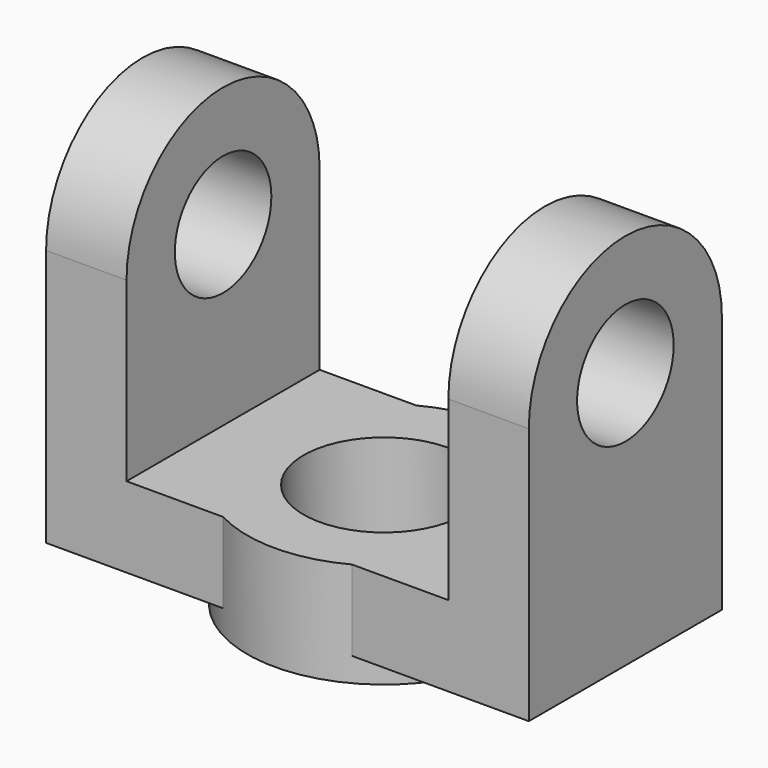
from build123d import *

# Parameters (mm, degrees)
F0_R     = 7.5
F1_DEPTH = 60
F3_DEPTH = 30.001
F4_W     = 40
F4_H     = 22
F5_DEPTH = 30.001
F6_R     = 17
F6_R_2   = 10
F7_DEPTH = 13
F8_R     = 10
F9_DEPTH = 47.001


with BuildPart() as f1:
    # F0 (on Right) → F1 (new body)
    with BuildSketch(Plane.YZ):
        with BuildLine():
            Line((-15, 10), (-15, 0))
            Line((-15, 0), (15, 0))
            Line((15, 0), (15, 10))
            Line((15, 10), (15, 32))
            ThreePointArc((15, 32), (0, 47), (-15, 32))
            Line((-15, 32), (-15, 10))
        make_face()
        with Locations((0, 32)):
            Circle(F0_R, mode=Mode.SUBTRACT)
    extrude(amount=F1_DEPTH)

    # F2 (on face) → F3 (cut, through all)
    with BuildSketch(Plane.XZ.offset(15)):
        Polygon((50, 85.158385), (10, 82.922354), (10, 32), (50, 32), align=None)
    extrude(amount=-F3_DEPTH, mode=Mode.SUBTRACT)

    # F4 (on face) → F5 (cut, through all)
    with BuildSketch(Plane.XZ.offset(15)):
        with Locations((30, 21)):
            Rectangle(F4_W, F4_H)
    extrude(amount=-F5_DEPTH, mode=Mode.SUBTRACT)

    # F6 (on face) → F7 (join)
    with BuildSketch(Plane.XY.offset(10)):
        with Locations((30, 0)):
            Circle(F6_R)
        with Locations((30, 0)):
            Circle(F6_R_2, mode=Mode.SUBTRACT)
    extrude(amount=-F7_DEPTH)

    # F8 (on face) → F9 (cut, through all)
    with BuildSketch(Plane(origin=(0, 0, 0), x_dir=(1, 0, 0), z_dir=(0, 0, -1))):
        with Locations((30, 0)):
            Circle(F8_R)
    extrude(amount=-F9_DEPTH, mode=Mode.SUBTRACT)


solid = f1.part
